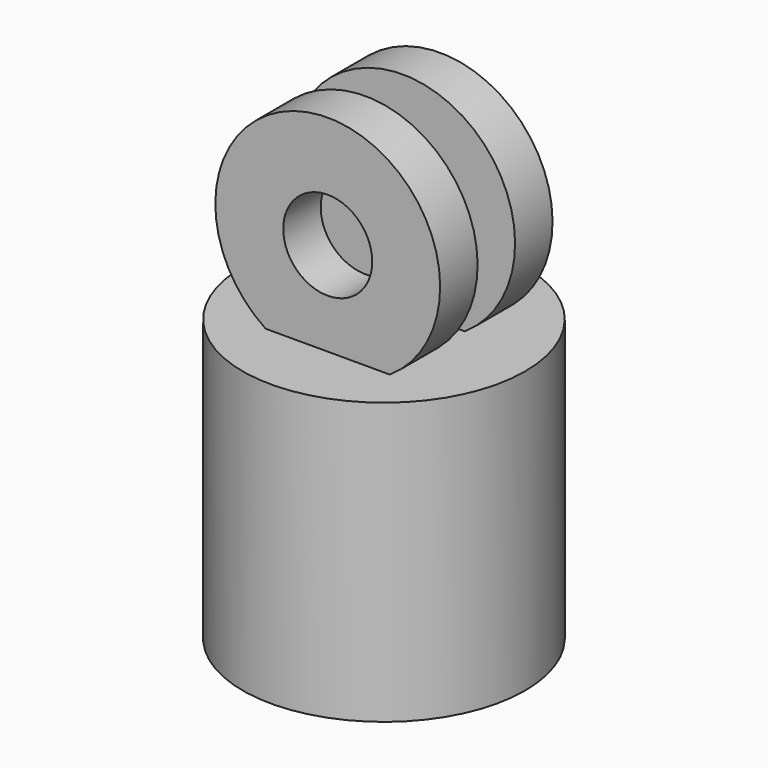
from build123d import *

# Parameters (mm, degrees)
SKETCH_R      = 30.15
PAD_DEPTH     = 60
SKETCH001_R   = 24.15
POCKET_DEPTH  = 48
SKETCH002_R   = 24
SKETCH002_R_2 = 9.5
PAD001_DEPTH  = 10
SKETCH003_R   = 24
SKETCH003_R_2 = 9.5
PAD002_DEPTH  = 10


with BuildPart() as part:
    # Sketch → Pad (new body)
    with BuildSketch(Plane.XY):
        Circle(SKETCH_R)
    extrude(amount=PAD_DEPTH)

    # Sketch001 (on Face2 of Pad) → Pocket (cut)
    with BuildSketch(Plane(origin=(0, 0, 0), x_dir=(1, 0, 0), z_dir=(0, 0, -1))):
        Circle(SKETCH001_R)
    extrude(amount=-POCKET_DEPTH, mode=Mode.SUBTRACT)

    # Sketch002 → Pad001 (join)
    with BuildSketch(Plane.XZ.offset(5)):
        with Locations((0, 80)):
            Circle(SKETCH002_R)
        with Locations((0, 80)):
            Circle(SKETCH002_R_2, mode=Mode.SUBTRACT)
    extrude(amount=PAD001_DEPTH)

    # Sketch003 → Pad002 (join)
    with BuildSketch(Plane.XZ.offset(-5)):
        with Locations((0, 80)):
            Circle(SKETCH003_R)
        with Locations((0, 80)):
            Circle(SKETCH003_R_2, mode=Mode.SUBTRACT)
    extrude(amount=-PAD002_DEPTH)


solid = part.part
